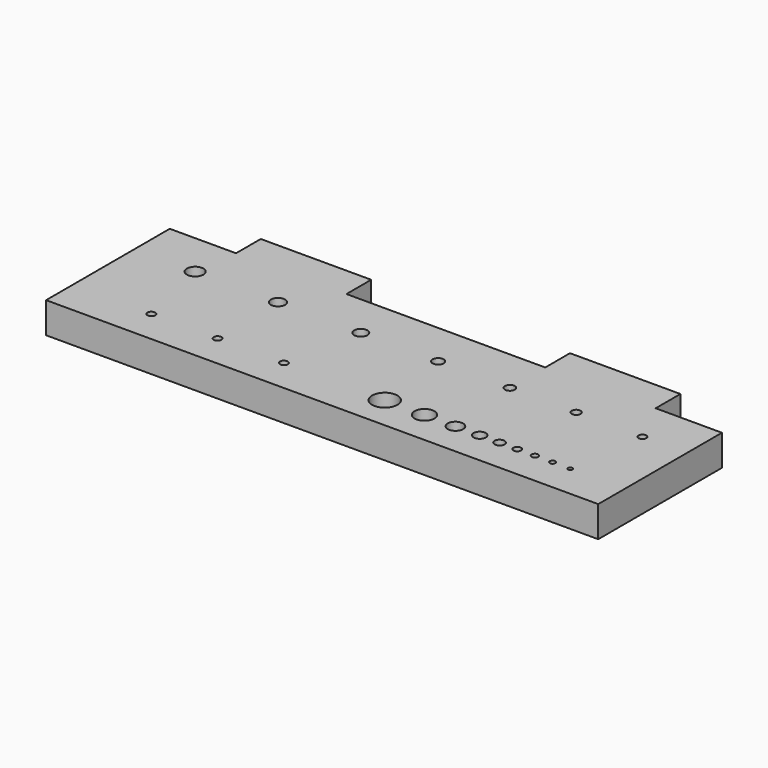
from build123d import *

# Parameters (mm, degrees)
F0_W     = 250
F0_H     = 70
F0_R     = 1.75
F0_R_2   = 5.75
F0_R_3   = 4.5
F0_R_4   = 3.5
F0_R_5   = 2.75
F0_R_6   = 2.25
F0_R_7   = 1.5
F0_R_8   = 1.25
F0_R_9   = 1
F0_R_10  = 3.75
F0_R_11  = 3.25
F0_R_12  = 3
F0_R_13  = 2.5
F0_R_14  = 2
F1_DEPTH = 14
F2_W     = 50
F2_H     = 14
F3_DEPTH = 14


with BuildPart() as f1:
    # F0 (on Top) → F1 (new body)
    with BuildSketch(Plane.XY):
        with Locations((0, -35)):
            Rectangle(F0_W, F0_H)
        with Locations((-89.333333, -55)):
            Circle(F0_R, mode=Mode.SUBTRACT)
        with Locations((-59.333333, -55)):
            Circle(F0_R, mode=Mode.SUBTRACT)
        with Locations((-29.333333, -55)):
            Circle(F0_R, mode=Mode.SUBTRACT)
        with Locations((16.333333, -55)):
            Circle(F0_R_2, mode=Mode.SUBTRACT)
        with Locations((34.333333, -55)):
            Circle(F0_R_3, mode=Mode.SUBTRACT)
        with Locations((48.333333, -55)):
            Circle(F0_R_4, mode=Mode.SUBTRACT)
        with Locations((59.333333, -55)):
            Circle(F0_R_5, mode=Mode.SUBTRACT)
        with Locations((68.333333, -55)):
            Circle(F0_R_6, mode=Mode.SUBTRACT)
        with Locations((76.333333, -55)):
            Circle(F0_R, mode=Mode.SUBTRACT)
        with Locations((84.333333, -55)):
            Circle(F0_R_7, mode=Mode.SUBTRACT)
        with Locations((92.333333, -55)):
            Circle(F0_R_8, mode=Mode.SUBTRACT)
        with Locations((100.333333, -55)):
            Circle(F0_R_9, mode=Mode.SUBTRACT)
        with Locations((-97.5, -20)):
            Circle(F0_R_10, mode=Mode.SUBTRACT)
        with Locations((-60, -20)):
            Circle(F0_R_11, mode=Mode.SUBTRACT)
        with Locations((-22.5, -20)):
            Circle(F0_R_12, mode=Mode.SUBTRACT)
        with Locations((12.5, -20)):
            Circle(F0_R_13, mode=Mode.SUBTRACT)
        with Locations((45, -20)):
            Circle(F0_R_6, mode=Mode.SUBTRACT)
        with Locations((75, -20)):
            Circle(F0_R_14, mode=Mode.SUBTRACT)
        with Locations((105, -20)):
            Circle(F0_R, mode=Mode.SUBTRACT)
    extrude(amount=F1_DEPTH)

    # F2 (on face) → F3 (join)
    with BuildSketch(Plane(origin=(0, 0, 0), x_dir=(-1, 0, 0), z_dir=(0, 1, 0))):
        with Locations((70, 7)):
            Rectangle(F2_W, F2_H)
        with Locations((-70, 7)):
            Rectangle(F2_W, F2_H)
    extrude(amount=F3_DEPTH)


solid = f1.part
